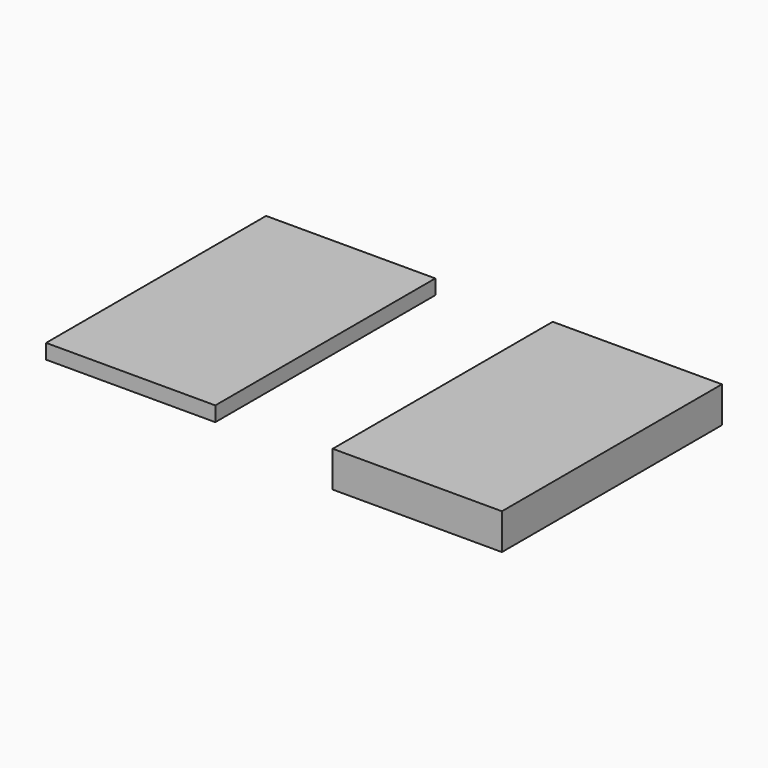
from build123d import *

# Parameters (mm, degrees)
F0_W     = 20.32
F0_H     = 1.778
F1_DEPTH = 33.02
F0_H_2   = 4.318
F2_DEPTH = 33.02


with BuildPart() as f1:
    # F0 (on Front) → F1 (new body)
    with BuildSketch(Plane.XZ):
        Rectangle(F0_W, F0_H)
    extrude(amount=F1_DEPTH)

    # F0 (on Front) → F2 (join)
    with BuildSketch(Plane.XZ):
        Rectangle(F0_W, F0_H)
        with Locations((34.416999, -1.27)):
            Rectangle(F0_W, F0_H_2)
    extrude(amount=F2_DEPTH)


solid = f1.part
